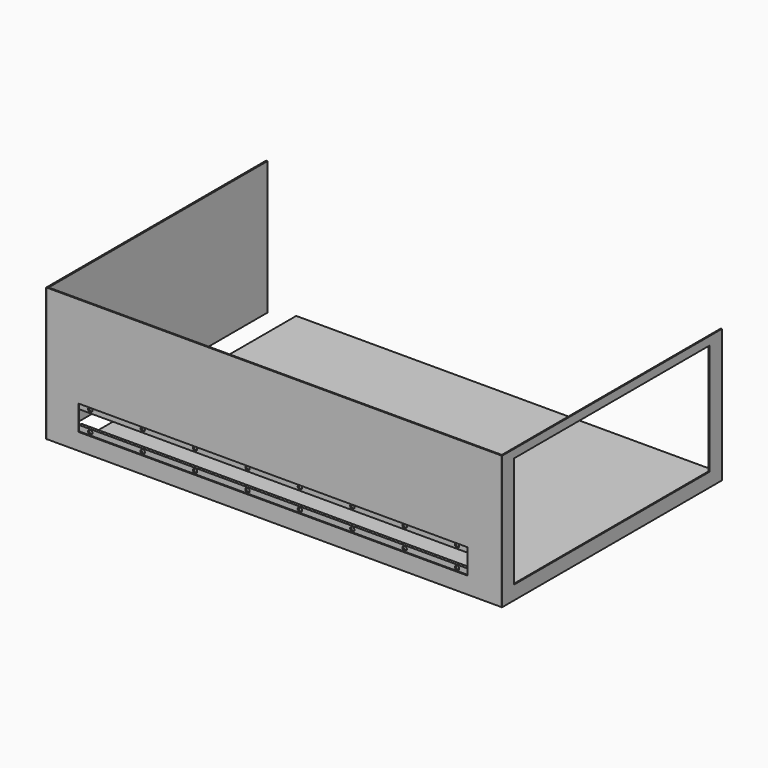
from build123d import *

# Parameters (mm, degrees)
SKETCH_W      = 965.2
SKETCH_H      = 609.6
PAD_DEPTH     = 20.32
SKETCH004_W   = 1041.4
SKETCH004_H   = 304.8
SKETCH004_W_2 = 889
SKETCH004_H_2 = 57.15
PAD002_DEPTH  = 2.54
SKETCH005_W   = 889
SKETCH005_H   = 50.8
SKETCH005_R   = 4.953
PAD008_DEPTH  = 3.175
SKETCH006_W   = 889
SKETCH006_H   = 50.8
PAD009_DEPTH  = 3.175
SKETCH007_W   = 628.65
SKETCH007_H   = 304.8
PAD007_DEPTH  = 3.175
SKETCH008_W   = 628.65
SKETCH008_H   = 304.8
SKETCH008_W_2 = 558.8
SKETCH008_H_2 = 254
PAD006_DEPTH  = 2.54


with BuildPart() as pad:
    # Sketch → Pad (new body)
    with BuildSketch(Plane.XY):
        with Locations((38.1, 0)):
            Rectangle(SKETCH_W, SKETCH_H)
    extrude(amount=PAD_DEPTH)


with BuildPart() as pad_1:
    # Body placement: moved
    add(pad.part.moved(Location((-0.001785, 0.065608, 0.576416))))


with BuildPart() as front:
    # Sketch004 → Pad002 (new body)
    with BuildSketch(Plane.XZ.offset(311.15)):
        with Locations((0, 152.4)):
            Rectangle(SKETCH004_W, SKETCH004_H)
        with Locations((-3.175, 66.675)):
            Rectangle(SKETCH004_W_2, SKETCH004_H_2, mode=Mode.SUBTRACT)
    extrude(amount=PAD002_DEPTH)

    # Sketch005 → Pad008 (join)
    with BuildSketch(Plane.XZ.offset(311.15)):
        with Locations((-3.175, 25.4)):
            Rectangle(SKETCH005_W, SKETCH005_H)
        with Locations((-422.275, 44.45)):
            Circle(SKETCH005_R, mode=Mode.SUBTRACT)
        with Locations((-302.532143, 44.45)):
            Circle(SKETCH005_R, mode=Mode.SUBTRACT)
        with Locations((-182.789286, 44.45)):
            Circle(SKETCH005_R, mode=Mode.SUBTRACT)
        with Locations((-63.046429, 44.45)):
            Circle(SKETCH005_R, mode=Mode.SUBTRACT)
        with Locations((56.696429, 44.45)):
            Circle(SKETCH005_R, mode=Mode.SUBTRACT)
        with Locations((176.439286, 44.45)):
            Circle(SKETCH005_R, mode=Mode.SUBTRACT)
        with Locations((296.182143, 44.45)):
            Circle(SKETCH005_R, mode=Mode.SUBTRACT)
        with Locations((415.925, 44.45)):
            Circle(SKETCH005_R, mode=Mode.SUBTRACT)
        with Locations((-3.175, 107.95)):
            Rectangle(SKETCH005_W, SKETCH005_H)
        with Locations((-422.275, 89.662)):
            Circle(SKETCH005_R, mode=Mode.SUBTRACT)
        with Locations((-302.532143, 89.662)):
            Circle(SKETCH005_R, mode=Mode.SUBTRACT)
        with Locations((-182.789286, 89.662)):
            Circle(SKETCH005_R, mode=Mode.SUBTRACT)
        with Locations((-63.046429, 89.662)):
            Circle(SKETCH005_R, mode=Mode.SUBTRACT)
        with Locations((56.696429, 89.662)):
            Circle(SKETCH005_R, mode=Mode.SUBTRACT)
        with Locations((176.439286, 89.662)):
            Circle(SKETCH005_R, mode=Mode.SUBTRACT)
        with Locations((296.182143, 89.662)):
            Circle(SKETCH005_R, mode=Mode.SUBTRACT)
        with Locations((415.925, 89.662)):
            Circle(SKETCH005_R, mode=Mode.SUBTRACT)
    extrude(amount=-PAD008_DEPTH)

    # Sketch006 → Pad009 (join)
    with BuildSketch(Plane.XZ.offset(307.975)):
        with Locations((-3.175, 25.4)):
            Rectangle(SKETCH006_W, SKETCH006_H)
        with Locations((-3.175, 107.95)):
            Rectangle(SKETCH006_W, SKETCH006_H)
    extrude(amount=-PAD009_DEPTH)


with BuildPart() as left:
    # Sketch007 → Pad007 (new body)
    with BuildSketch(Plane.YZ.offset(-520.7)):
        with Locations((0, 152.4)):
            Rectangle(SKETCH007_W, SKETCH007_H)
    extrude(amount=PAD007_DEPTH)


with BuildPart() as right:
    # Sketch008 → Pad006 (new body)
    with BuildSketch(Plane.YZ.offset(520.7)):
        with Locations((0, 152.4)):
            Rectangle(SKETCH008_W, SKETCH008_H)
        with Locations((0, 158.75)):
            Rectangle(SKETCH008_W_2, SKETCH008_H_2, mode=Mode.SUBTRACT)
    extrude(amount=-PAD006_DEPTH)


solid = Compound([pad_1.part, front.part, left.part, right.part])
